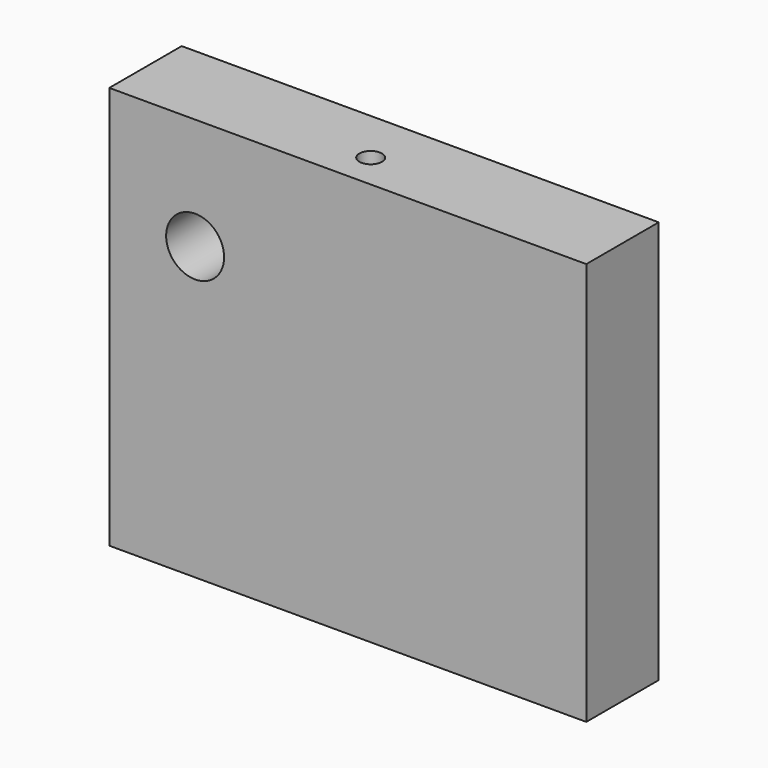
from build123d import *

# Parameters (mm, degrees)
F0_W     = 133.841977
F0_H     = 113.085672
F1_DEPTH = 25.4
F2_R     = 8.131244
F3_DEPTH = 25.4
F5_D     = 6.35


with BuildPart() as f1:
    # F0 (on Front) → F1 (new body)
    with BuildSketch(Plane.XZ):
        with Locations((66.920988, 56.542836)):
            Rectangle(F0_W, F0_H)
    extrude(amount=F1_DEPTH)

    # F2 (on face) → F3 (cut)
    with BuildSketch(Plane.XZ.offset(25.4)):
        with Locations((24.086226, 81.72901)):
            Circle(F2_R)
    extrude(amount=-F3_DEPTH, mode=Mode.SUBTRACT)

    # F5 (through all)
    with Locations(Plane.XY.offset(113.085672)):
        with Locations((65.402642, -15.465394)):
            Hole(F5_D / 2)


solid = f1.part
